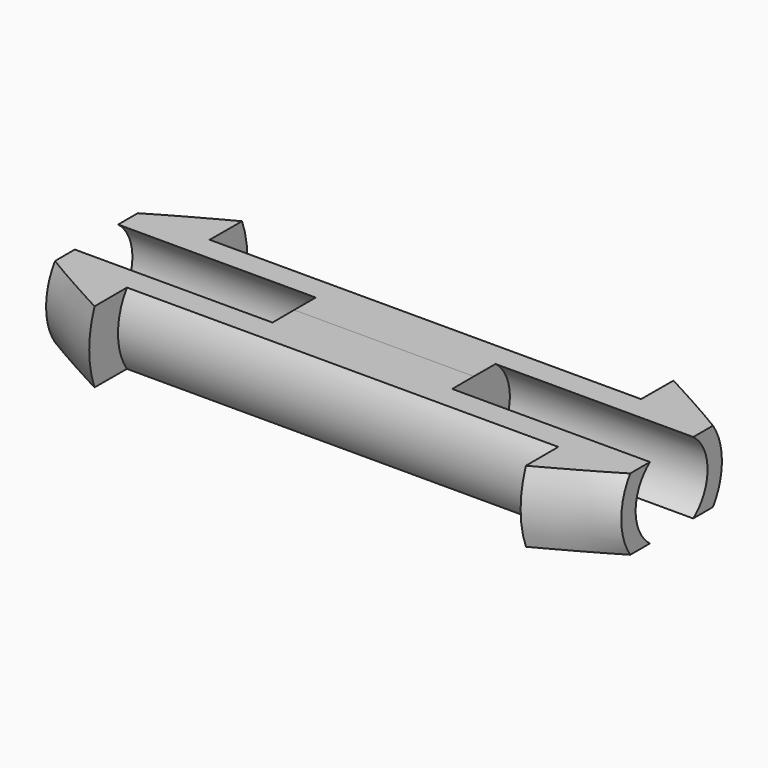
from build123d import *

# Parameters (mm, degrees)
F2_W     = 21
F2_H     = 15
F3_DEPTH = 10.5
F3_TAPER = -0.16


with BuildPart() as f1:
    # F0 (on Top) → F1 (revolve)
    with BuildSketch(Plane.XY):
        Polygon((5, 3.5), (0, 3.5), (0, 0), (5, 0), (5, 2.5), align=None)
        Polygon((12, 3.5), (5, 3.5), (5, 2.5), (16, 2.5), (16, 3.5), align=None)
        Polygon((12, 5.5), (12, 3.5), (16, 3.5), align=None)
    revolve(axis=Axis((2.5, 0, 0), (1, 0, 0)))

    # F2 (on Front) → F3 (cut, symmetric)
    with BuildSketch(Plane.XZ):
        with Locations((10.5, 9.5)):
            Rectangle(F2_W, F2_H)
        with Locations((10.5, -9.5)):
            Rectangle(F2_W, F2_H)
    extrude(amount=F3_DEPTH, both=True, taper=F3_TAPER, mode=Mode.SUBTRACT)

    # F4: F1 across plane


with BuildPart() as f1_1:
    add(f1.part)
    add(f1.part.mirror(Plane.YZ))


solid = f1_1.part
